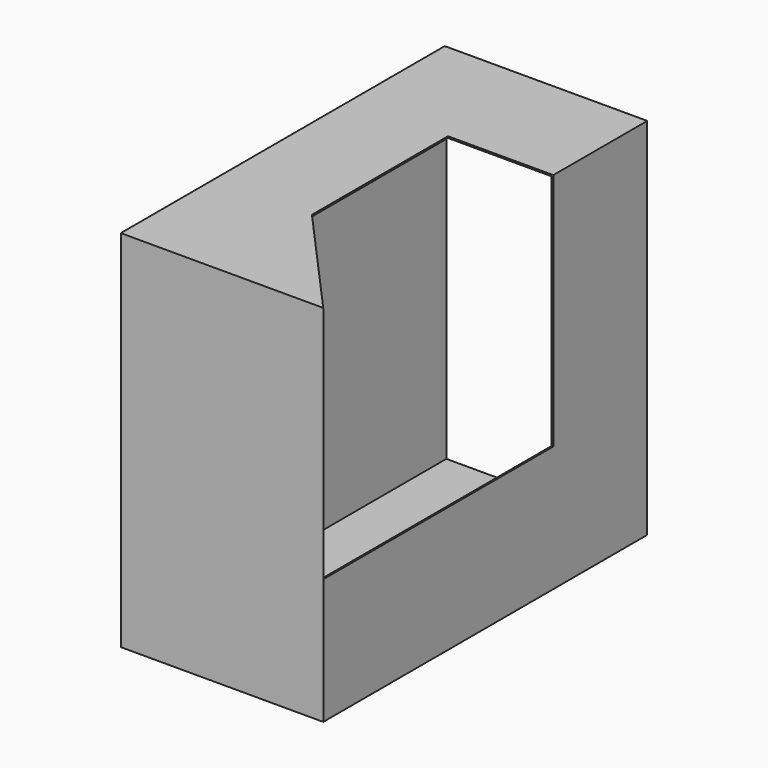
from build123d import *

# Parameters (mm, degrees)
F0_W     = 50
F0_H     = 90
F1_DEPTH = 100
F2_T     = -0.4
F4_DEPTH = 59


with BuildPart() as f1:
    # F0 (on Front) → F1 (new body)
    with BuildSketch(Plane.XZ):
        with Locations((25, 45)):
            Rectangle(F0_W, F0_H)
    extrude(amount=-F1_DEPTH)

    # F2
    f2_openings = [f1.faces().sort_by_distance(p)[0] for p in [
        (25, 100, 45),
    ]]
    offset(amount=F2_T, openings=f2_openings)

    # F3 (on face) → F4 (cut)
    with BuildSketch(Plane.XY.offset(90)):
        Polygon((24, 29), (50, 0), (50, 71), (24, 71), align=None)
    extrude(amount=-F4_DEPTH, mode=Mode.SUBTRACT)


solid = f1.part
